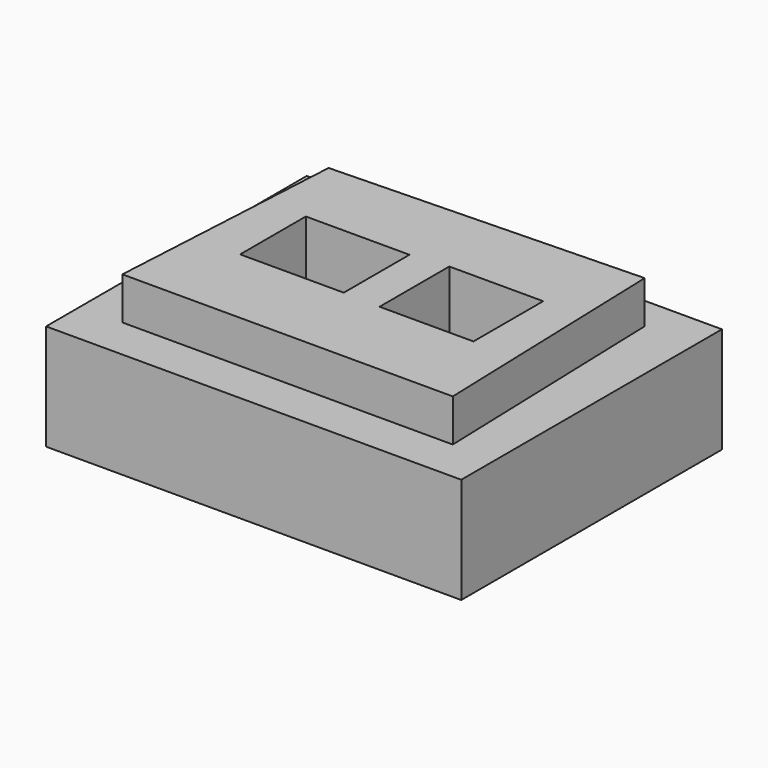
from build123d import *

# Parameters (mm, degrees)
F1_DEPTH = 100
F2_W     = 980
F2_H     = 769.125695
F3_DEPTH = 250
F4_W     = 244.644434
F4_H     = 193.814576
F4_W_2   = 221.683964
F4_H_2   = 205.729261
F5_DEPTH = 600


with BuildPart() as f1:
    # F0 (on Top) → F1 (new body)
    with BuildSketch(Plane.XY):
        Polygon((-780, 0), (0, 0), (-18.731487, 589.702579), (-748.441424, 569.125695), align=None)
    extrude(amount=F1_DEPTH)

    # F2 (on face) → F3 (join)
    with BuildSketch(Plane(origin=(0, 0, 0), x_dir=(1, 0, 0), z_dir=(0, 0, -1))):
        with Locations((-390, -284.562847)):
            Rectangle(F2_W, F2_H)
    extrude(amount=F3_DEPTH)

    # F4 (on face) → F5 (cut)
    with BuildSketch(Plane.XY.offset(100)):
        with Locations((-537.912771, 294.744283)):
            Rectangle(F4_W, F4_H)
        with Locations((-218.167432, 298.055314)):
            Rectangle(F4_W_2, F4_H_2)
    extrude(amount=-F5_DEPTH, mode=Mode.SUBTRACT)


solid = f1.part
